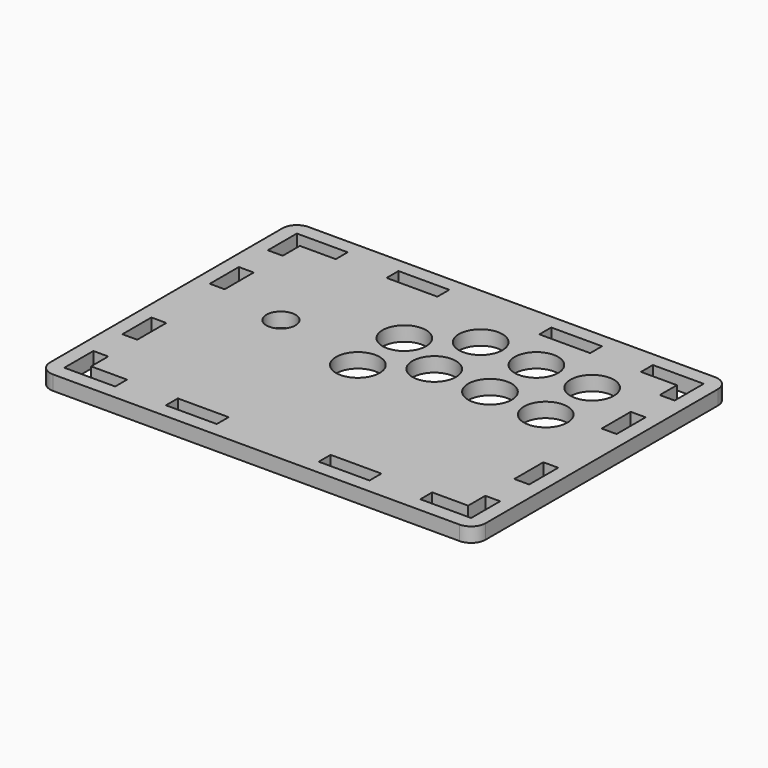
from build123d import *

# Parameters (mm, degrees)
F0_W     = 35
F0_H     = 10.25
F0_W_2   = 10.25
F0_H_2   = 25
F1_DEPTH = 10
F2_R     = 10
F2_R_2   = 15
F3_DEPTH = 10


with BuildPart() as f1:
    # F0 (on Top) → F1 (new body)
    with BuildSketch(Plane.XY):
        with BuildLine():
            Line((140, 110), (-140, 110))
            ThreePointArc((-140, 110), (-147.071068, 107.071068), (-150, 100))
            Line((-150, 100), (-150, -100))
            ThreePointArc((-150, -100), (-147.071068, -107.071068), (-140, -110))
            Line((-140, -110), (140, -110))
            ThreePointArc((140, -110), (147.071068, -107.071068), (150, -100))
            Line((150, -100), (150, 100))
            ThreePointArc((150, 100), (147.071068, 107.071068), (140, 110))
        make_face()
        Polygon((-105.125, -100.125), (-140.125, -100.125), (-140.125, -75.125), (-129.875, -75.125), (-129.875, -89.878049), (-105.125, -89.875), align=None, mode=Mode.SUBTRACT)
        with Locations((-52.625, -95)):
            Rectangle(F0_W, F0_H, mode=Mode.SUBTRACT)
        with Locations((-135, -37.625)):
            Rectangle(F0_W_2, F0_H_2, mode=Mode.SUBTRACT)
        with Locations((52.625, -95)):
            Rectangle(F0_W, F0_H, mode=Mode.SUBTRACT)
        Polygon((129.875, -75.125), (140.125, -75.125), (140.125, -100.125), (105.125, -100.125), (105.125, -89.875), (129.875, -89.878049), align=None, mode=Mode.SUBTRACT)
        with Locations((135, -37.625)):
            Rectangle(F0_W_2, F0_H_2, mode=Mode.SUBTRACT)
        with Locations((-135, 37.625)):
            Rectangle(F0_W_2, F0_H_2, mode=Mode.SUBTRACT)
        Polygon((-129.875, 75.125), (-140.125, 75.125), (-140.125, 100.125), (-105.125, 100.125), (-105.125, 89.875), (-129.875, 89.878049), align=None, mode=Mode.SUBTRACT)
        with Locations((-52.625, 95)):
            Rectangle(F0_W, F0_H, mode=Mode.SUBTRACT)
        with Locations((135, 37.625)):
            Rectangle(F0_W_2, F0_H_2, mode=Mode.SUBTRACT)
        with Locations((52.625, 95)):
            Rectangle(F0_W, F0_H, mode=Mode.SUBTRACT)
        Polygon((105.125, 89.875), (105.125, 100.125), (140.125, 100.125), (140.125, 75.125), (129.875, 75.125), (129.875, 89.878049), align=None, mode=Mode.SUBTRACT)
    extrude(amount=F1_DEPTH)

    # F2 (on face) → F3 (cut)
    with BuildSketch(Plane.XY.offset(10)):
        with Locations((-83.84011, 16.042637)):
            Circle(F2_R)
        with Locations((-18.84011, 41.042637)):
            Circle(F2_R_2)
        with Locations((16.15989, 63.042637)):
            Circle(F2_R_2)
        with Locations((56.15989, 61.042637)):
            Circle(F2_R_2)
        with Locations((96.15989, 59.042637)):
            Circle(F2_R_2)
        with Locations((96.15989, 19.042637)):
            Circle(F2_R_2)
        with Locations((56.15989, 21.042637)):
            Circle(F2_R_2)
        with Locations((16.15989, 23.042637)):
            Circle(F2_R_2)
        with Locations((-18.84011, 1.042637)):
            Circle(F2_R_2)
    extrude(amount=-F3_DEPTH, mode=Mode.SUBTRACT)


solid = f1.part
